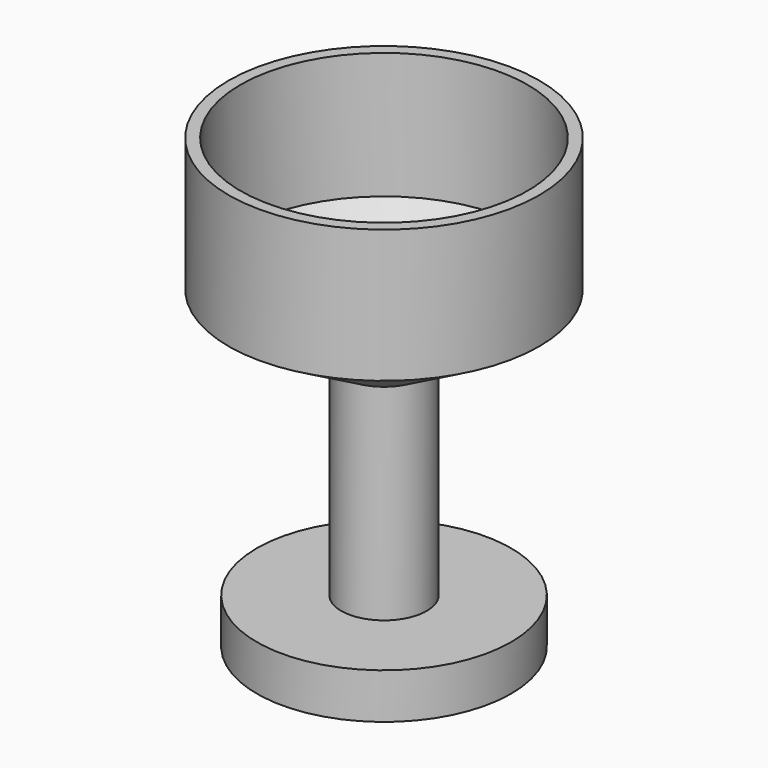
from build123d import *

# Parameters (mm, degrees)
F2_T = -2.54


with BuildPart() as f1:
    # F0 (on Front) → F1 (revolve)
    with BuildSketch(Plane.XZ):
        Polygon((0, -40.9462936223), (0, 56.477651), (-33.7689258158, 56.477651), (-33.7689258158, 27.5328531861), (-9.2952791601, 13.6487651616), (-9.2952791601, -31.062707305), (-27.6505146176, -31.062707305), (-27.6505146176, -40.9462936223), align=None)
    revolve(axis=Axis((0, 0, 7.7656786889), (0, 0, -1)))

    # F2
    f2_openings = [f1.faces().sort_by_distance(p)[0] for p in [
        (0, 0, 56.477651),
    ]]
    offset(amount=F2_T, openings=f2_openings, kind=Kind.INTERSECTION)


solid = f1.part
